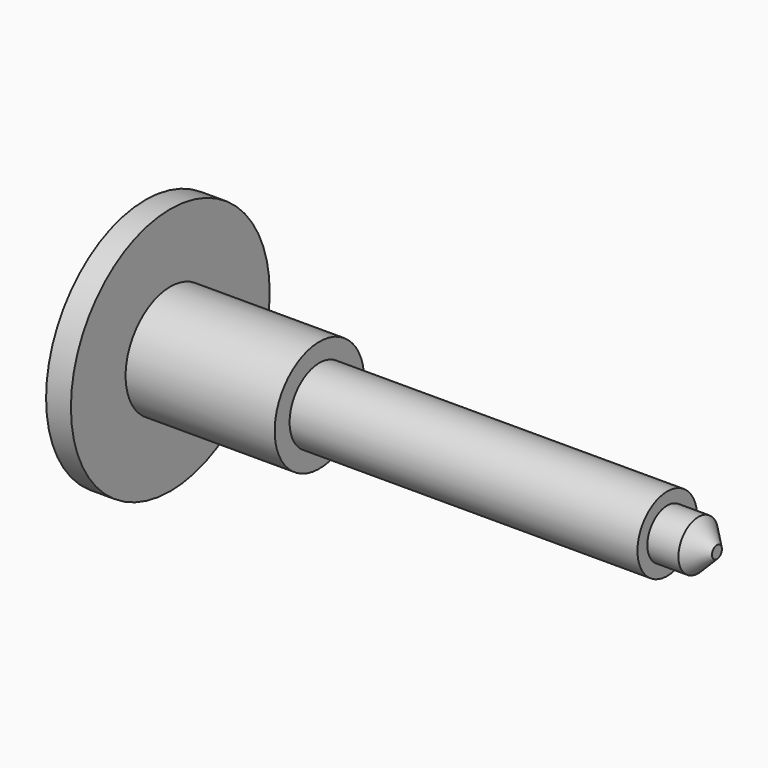
from build123d import *

# Parameters (mm, degrees)
F2_SIZE2 = 2.38125
F2_SIZE  = 2.38125


with BuildPart() as f1:
    # F0 (on Top) → F1 (revolve)
    with BuildSketch(Plane.XY):
        Polygon((0, 15.875), (0, 0), (73.025, 0), (73.025, 3.175), (66.675, 3.175), (66.675, 4.7625), (22.225, 4.7625), (22.225, 7.14375), (3.175, 7.14375), (3.175, 15.875), align=None)
    revolve(axis=Axis((36.5125, 0, 0), (1, 0, 0)))

    # F2
    f2_edges = [f1.edges().sort_by_distance(p)[0] for p in [
        (73.025, -3.175, 0),
    ]]
    chamfer(f2_edges, length=F2_SIZE, length2=F2_SIZE2)


solid = f1.part
